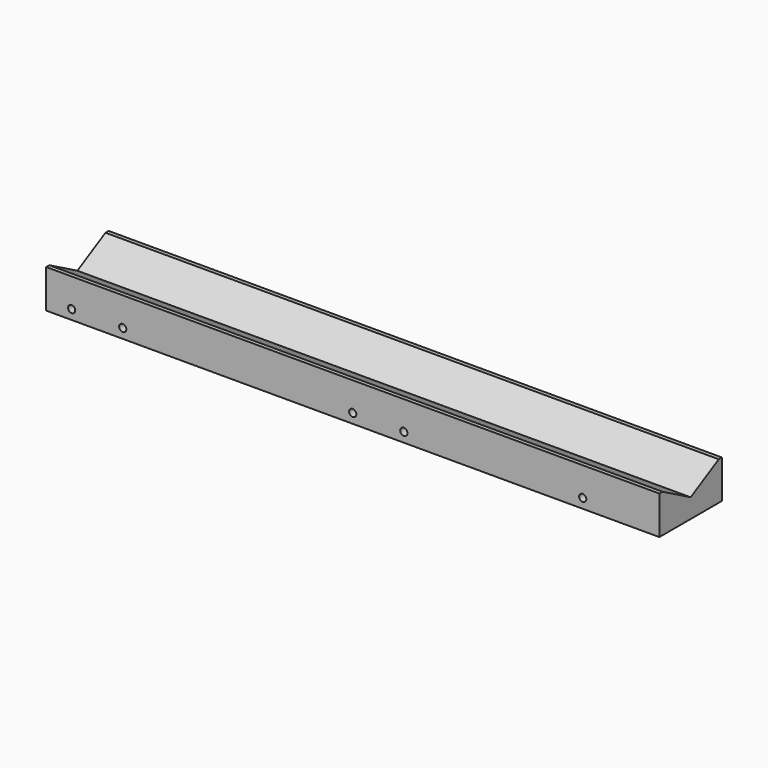
from build123d import *

# Parameters (mm, degrees)
F0_W     = 77.724
F0_H     = 38.1
F1_DEPTH = 304.8
F3_DEPTH = 609.601
F5_D     = 7.14375


with BuildPart() as f1:
    # F0 (on Right) → F1 (new body, symmetric)
    with BuildSketch(Plane.YZ):
        Rectangle(F0_W, F0_H)
    extrude(amount=F1_DEPTH, both=True)

    # F2 (on face) → F3 (cut, through all)
    with BuildSketch(Plane.YZ.offset(304.8)):
        Polygon((34.925, 19.05), (-34.925, 19.05), (0, 0), align=None)
    extrude(amount=-F3_DEPTH, mode=Mode.SUBTRACT)

    # F5 (through all)
    with Locations(Plane.XZ.offset(38.862)):
        with Locations((-228.6, -9.525), (0, -9.525), (228.6, -9.525), (-279.4, -9.525), (50.8, -9.525)):
            Hole(F5_D / 2)


solid = f1.part
